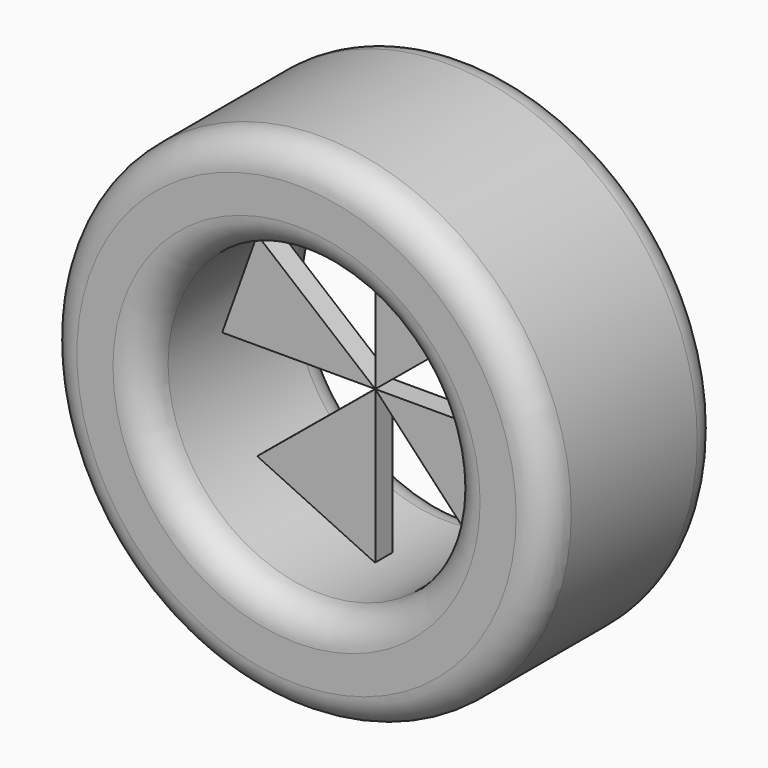
from build123d import *

# Parameters (mm, degrees)
F1_DEPTH = 0.635
F2_R     = 14.535464
F2_R_2   = 8.884495
F3_DEPTH = 6.35
F4_R     = 1.778


with BuildPart() as f1:
    # F0 (on Front) → F1 (new body, symmetric)
    with BuildSketch(Plane.XZ):
        Polygon((-8.89, 0), (0, 0), (-6.85468, 5.660871), align=None)
        Polygon((0, -8.89), (0, 0), (-6.85468, -5.660871), align=None)
        Polygon((6.090228, -6.476204), (8.89, 0), (0, 0), align=None)
        Polygon((0, 0), (6.85468, 5.660871), (0, 8.89), align=None)
    extrude(amount=F1_DEPTH, both=True)


with BuildPart() as f3:
    # F2 (on Front) → F3 (new body, symmetric)
    with BuildSketch(Plane.XZ):
        Circle(F2_R)
        Circle(F2_R_2, mode=Mode.SUBTRACT)
    extrude(amount=F3_DEPTH, both=True)

    # F4
    f4_edges = [f3.edges().sort_by_distance(p)[0] for p in [
        (-14.535464, 6.35, 0),
        (-14.535464, -6.35, 0),
        (-8.884495, 6.35, 0),
        (-8.884495, -6.35, 0),
    ]]
    fillet(f4_edges, radius=F4_R)


solid = Compound([f1.part, f3.part])
